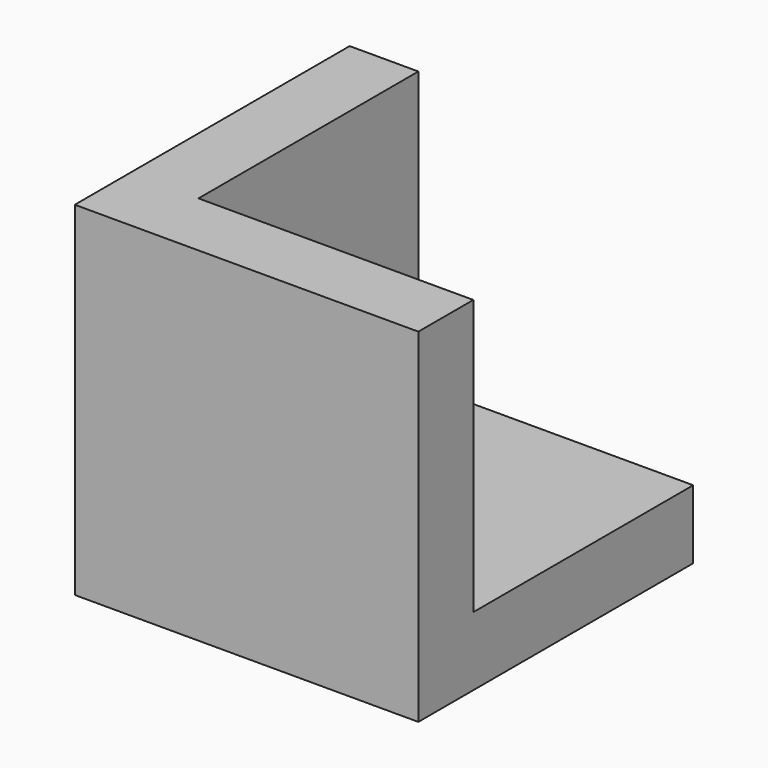
from build123d import *

# Parameters (mm, degrees)
BOX001_W     = 10
BOX001_H     = 10
BOX001_DEPTH = 10
BOX_W        = 10
BOX_H        = 10
BOX_DEPTH    = 10


with BuildPart() as obj1:
    # Box001 → Box001 (new body)
    with BuildSketch(Plane(origin=(2, 2, 2), x_dir=(1, 0, 0), z_dir=(0, 0, 1))):
        with Locations((5, 5)):
            Rectangle(BOX001_W, BOX001_H)
    extrude(amount=BOX001_DEPTH)


with BuildPart() as cut:
    # Box → Box (new body)
    with BuildSketch(Plane.XY):
        with Locations((5, 5)):
            Rectangle(BOX_W, BOX_H)
    extrude(amount=BOX_DEPTH)

    # Cut: cut obj1
    add(obj1.part, mode=Mode.SUBTRACT)


solid = cut.part
